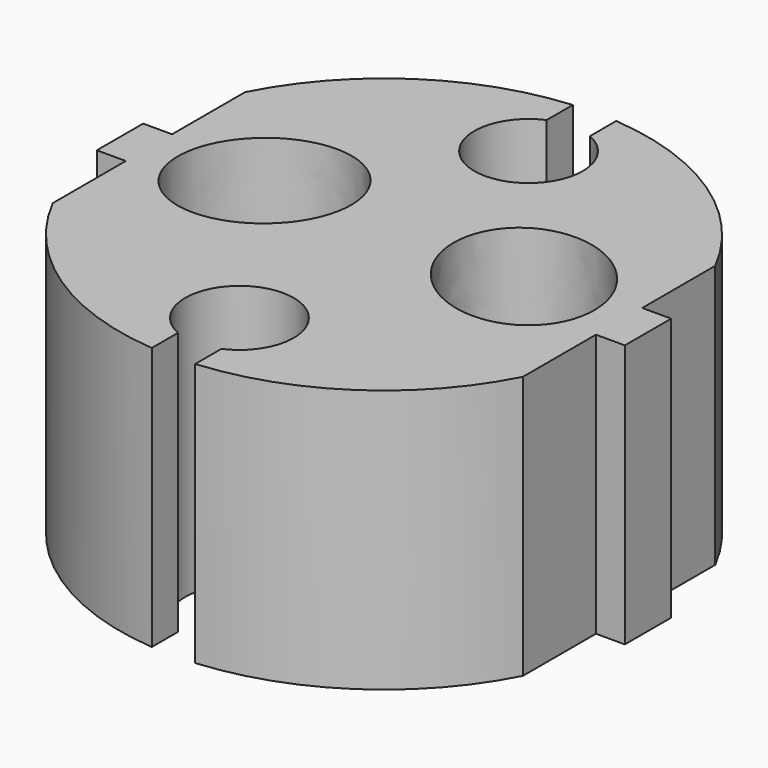
from build123d import *

# Parameters (mm, degrees)
F1_DEPTH = 18.2


with BuildPart() as f1:
    # F0 (on Top) → F1 (new body)
    with BuildSketch(Plane.XY):
        with BuildLine():
            Line((16.25, 2), (16.25, 8.306624))
            ThreePointArc((16.25, 8.306624), (10.157621, 15.161967), (1.5, 18.188252))
            Line((1.5, 18.188252), (1.5, 15.926928))
            ThreePointArc((1.5, 15.926928), (0, 8.739996), (-1.5, 15.926928))
            Line((-1.5, 15.926928), (-1.5, 18.188252))
            ThreePointArc((-1.5, 18.188252), (-10.157621, 15.161967), (-16.25, 8.306624))
            Line((-16.25, 8.306624), (-16.25, 2))
            Line((-16.25, 2), (-18.25, 2))
            Line((-18.25, 2), (-18.25, 0))
            Line((-18.25, 0), (-18.25, -2))
            Line((-18.25, -2), (-16.25, -2))
            Line((-16.25, -2), (-16.25, -8.306624))
            ThreePointArc((-16.25, -8.306624), (-10.157621, -15.161967), (-1.5, -18.188252))
            Line((-1.5, -18.188252), (-1.5, -15.926928))
            ThreePointArc((-1.5, -15.926928), (0, -8.739996), (1.5, -15.926928))
            Line((1.5, -15.926928), (1.5, -18.188252))
            ThreePointArc((1.5, -18.188252), (10.157621, -15.161967), (16.25, -8.306624))
            Line((16.25, -8.306624), (16.25, -2))
            Line((16.25, -2), (18.25, -2))
            Line((18.25, -2), (18.25, 0))
            Line((18.25, 0), (18.25, 2))
            Line((18.25, 2), (16.25, 2))
        make_face()
        with BuildLine():
            add(Edge.make_bspline(
                [(-4.624377, 4.617039), (-10.276395, 11.189988), (-13.963516, 2.302933), (-17.650637, -6.584122), (-8.311498, -4.270016), (1.027641, -1.95591), (-4.624377, 4.617039)],
                knots=[0, 0, 0, 2.094395, 2.094395, 4.18879, 4.18879, 6.283185, 6.283185, 6.283185], degree=2, weights=[1, 0.5, 1, 0.5, 1, 0.5, 1]))
        make_face(mode=Mode.SUBTRACT)
        with BuildLine():
            add(Edge.make_bspline(
                [(4.624377, 4.617039), (-1.027641, -1.95591), (8.311498, -4.270016), (17.650637, -6.584122), (13.963516, 2.302933), (10.276395, 11.189988), (4.624377, 4.617039)],
                knots=[0, 0, 0, 2.094395, 2.094395, 4.18879, 4.18879, 6.283185, 6.283185, 6.283185], degree=2, weights=[1, 0.5, 1, 0.5, 1, 0.5, 1]))
        make_face(mode=Mode.SUBTRACT)
    extrude(amount=F1_DEPTH)


solid = f1.part
